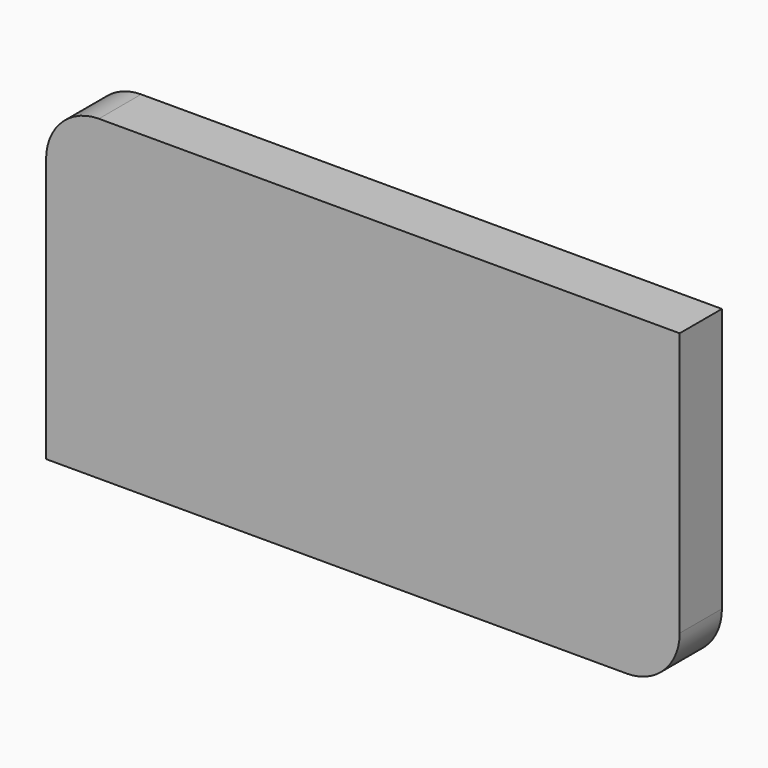
from build123d import *

# Parameters (mm, degrees)
F1_DEPTH = 12.7


with BuildPart() as f1:
    # F0 (on Front) → F1 (new body)
    with BuildSketch(Plane.XZ):
        with BuildLine():
            Line((76.2, -25.4), (76.2, 38.1))
            Line((76.2, 38.1), (-63.5, 38.1))
            ThreePointArc((-63.5, 38.1), (-72.480256, 34.380256), (-76.2, 25.4))
            Line((-76.2, 25.4), (-76.2, -38.1))
            Line((-76.2, -38.1), (63.5, -38.1))
            ThreePointArc((63.5, -38.1), (72.480256, -34.380256), (76.2, -25.4))
        make_face()
    extrude(amount=F1_DEPTH)


solid = f1.part
